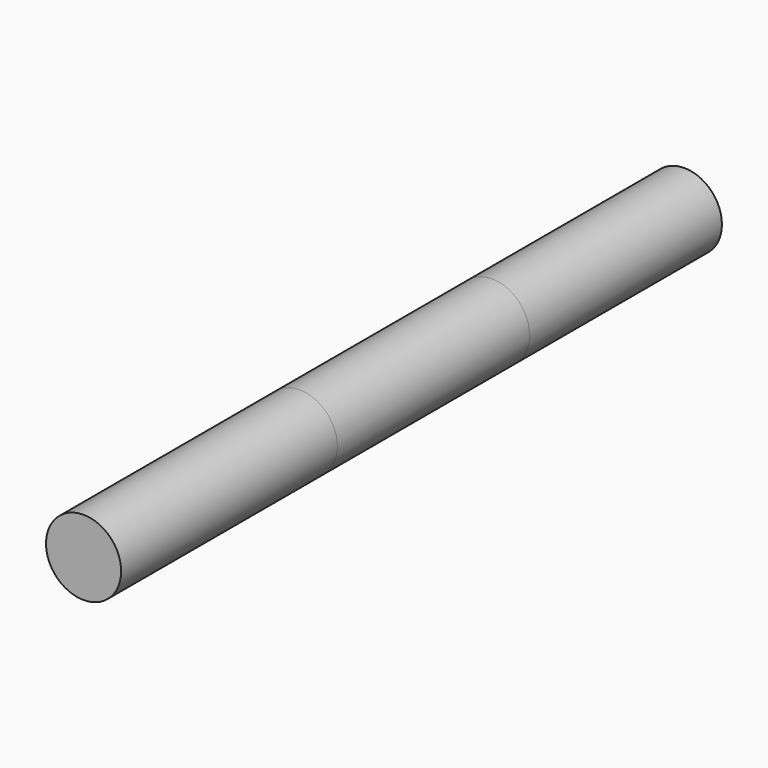
from build123d import *

# Parameters (mm, degrees)
F0_R     = 1.5875
F1_DEPTH = 10.16
F2_R     = 1.5875
F3_DEPTH = 10.16
F4_R     = 1.5875
F5_DEPTH = 11.43


with BuildPart() as f1:
    # F0 (on Front) → F1 (new body)
    with BuildSketch(Plane.XZ):
        Circle(F0_R)
    extrude(amount=F1_DEPTH)


with BuildPart() as f3:
    # F2 (on face) → F3 (new body)
    with BuildSketch(Plane.XZ.offset(10.16)):
        Circle(F2_R)
    extrude(amount=F3_DEPTH)


with BuildPart() as f5:
    # F4 (on face) → F5 (new body)
    with BuildSketch(Plane.XZ.offset(20.32)):
        Circle(F4_R)
    extrude(amount=F5_DEPTH)


solid = Compound([f1.part, f3.part, f5.part])
